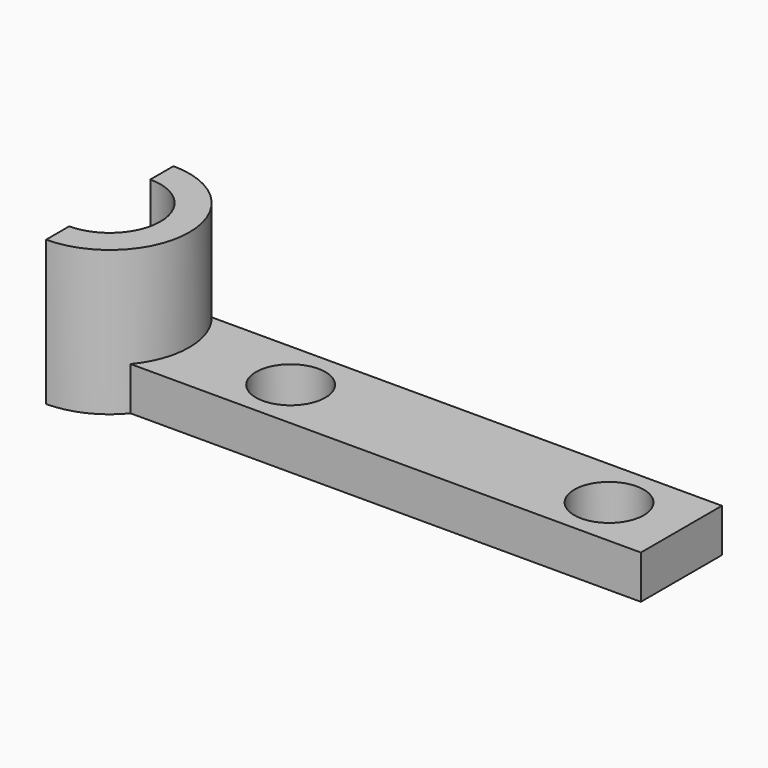
from build123d import *

# Parameters (mm, degrees)
F1_DEPTH = 25.4
F2_R     = 6.096
F3_DEPTH = 7.62


with BuildPart() as f1:
    # F0 (on Top) → F1 (new body)
    with BuildSketch(Plane.XY):
        with BuildLine():
            ThreePointArc((0, 8.89), (8.89, 0), (0, -8.89))
            Line((0, -8.89), (0, -13.97))
            ThreePointArc((0, -13.97), (13.97, 0), (0, 13.97))
            Line((0, 13.97), (0, 8.89))
        make_face()
        with BuildLine():
            ThreePointArc((0, 8.89), (8.89, 0), (0, -8.89))
            Line((0, -8.89), (0, -13.97))
            ThreePointArc((0, -13.97), (13.97, 0), (0, 13.97))
            Line((0, 13.97), (0, 8.89))
        make_face()
    extrude(amount=F1_DEPTH)

    # F2 (on face) → F3 (join)
    with BuildSketch(Plane(origin=(0, 0, 0), x_dir=(1, 0, 0), z_dir=(0, 0, -1))):
        with BuildLine():
            Line((100.33, 8.89), (10.776307, 8.89))
            ThreePointArc((10.776307, 8.89), (13.97, 0), (10.776307, -8.89))
            Line((10.776307, -8.89), (100.33, -8.89))
            Line((100.33, -8.89), (100.33, 8.89))
        make_face()
        with Locations((31.75, 0)):
            Circle(F2_R, mode=Mode.SUBTRACT)
        with Locations((87.63, 0)):
            Circle(F2_R, mode=Mode.SUBTRACT)
    extrude(amount=-F3_DEPTH)


solid = f1.part
